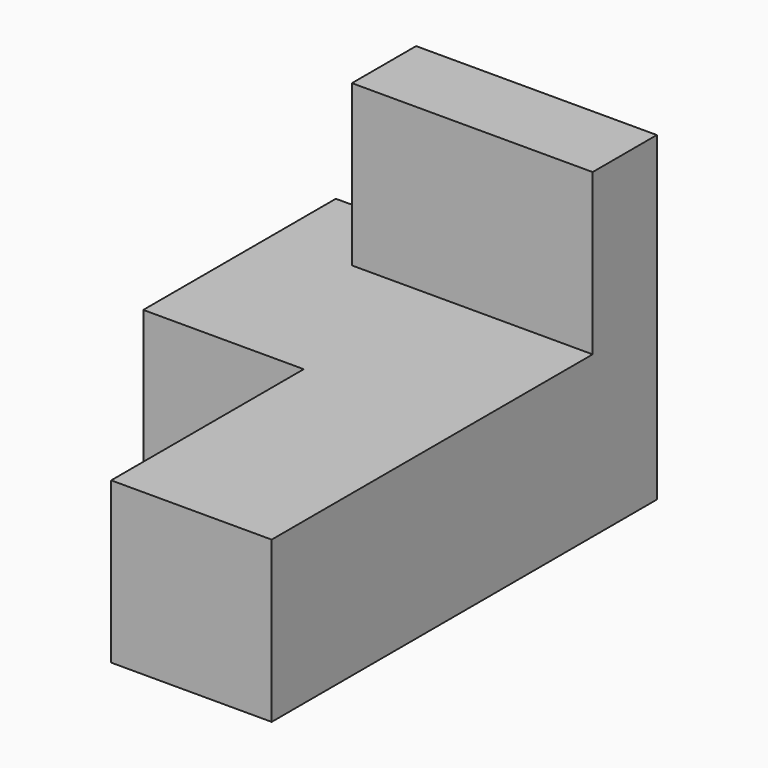
from build123d import *

# Parameters (mm, degrees)
F0_W     = 12.7
F0_H     = 12.7
F1_DEPTH = 38.1
F2_DEPTH = 19.05
F3_W     = 6.35
F3_H     = 12.7
F4_DEPTH = 19.05


with BuildPart() as f1:
    # F0 (on Front) → F1 (new body)
    with BuildSketch(Plane.XZ):
        with Locations((19.05, 6.35)):
            Rectangle(F0_W, F0_H)
    extrude(amount=F1_DEPTH)

    # F0 (on Front) → F2 (join)
    with BuildSketch(Plane.XZ):
        with Locations((6.35, 6.35)):
            Rectangle(F0_W, F0_H)
    extrude(amount=F2_DEPTH)

    # F3 (on face) → F4 (join)
    with BuildSketch(Plane.YZ.offset(25.4)):
        with Locations((-3.175, 19.05)):
            Rectangle(F3_W, F3_H)
    extrude(amount=-F4_DEPTH)


solid = f1.part
